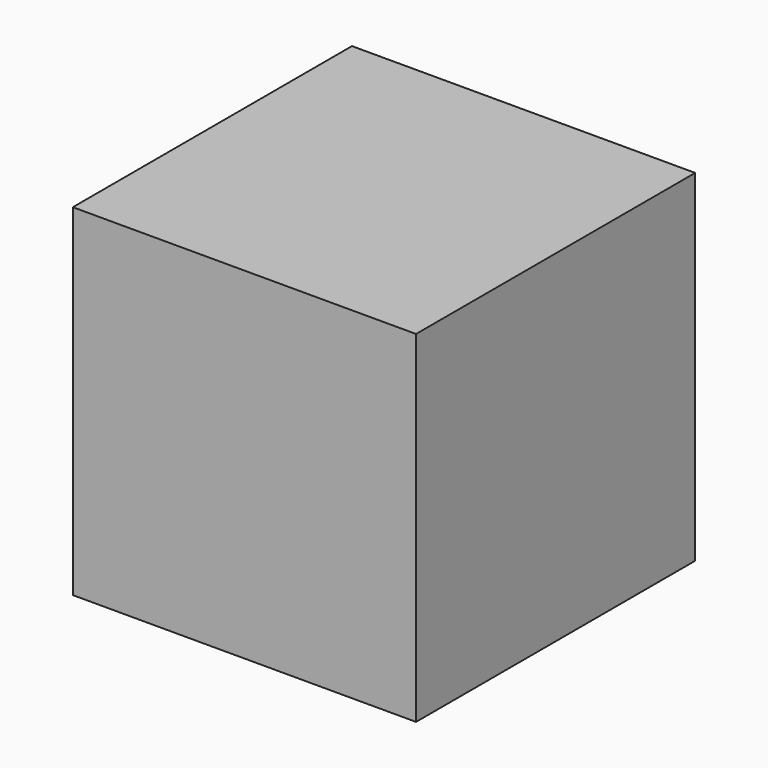
from build123d import *

# Parameters (mm, degrees)
F0_W     = 3
F0_H     = 610
F1_DEPTH = 600
F2_W     = 606
F2_H     = 616
F3_DEPTH = 3


with BuildPart() as f1:
    # F0 (on Top) → F1 (new body)
    with BuildSketch(Plane.XY):
        Polygon((304.217247, 285.197261), (-301.782753, 285.197261), (-301.782753, 282.197261), (-298.782753, 282.197261), (301.217247, 282.197261), (304.217247, 282.197261), align=None)
        with Locations((-300.282753, -22.802739)):
            Rectangle(F0_W, F0_H)
        with Locations((302.717247, -22.802739)):
            Rectangle(F0_W, F0_H)
        Polygon((-298.782753, -327.802739), (-301.782753, -327.802739), (-301.782753, -330.802739), (304.217247, -330.802739), (304.217247, -327.802739), (301.217247, -327.802739), align=None)
    extrude(amount=F1_DEPTH)

    # F2 (on face) → F3 (join)
    with BuildSketch(Plane.XY.offset(600)):
        with Locations((1.217247, -22.802739)):
            Rectangle(F2_W, F2_H)
    extrude(amount=F3_DEPTH)


solid = f1.part
